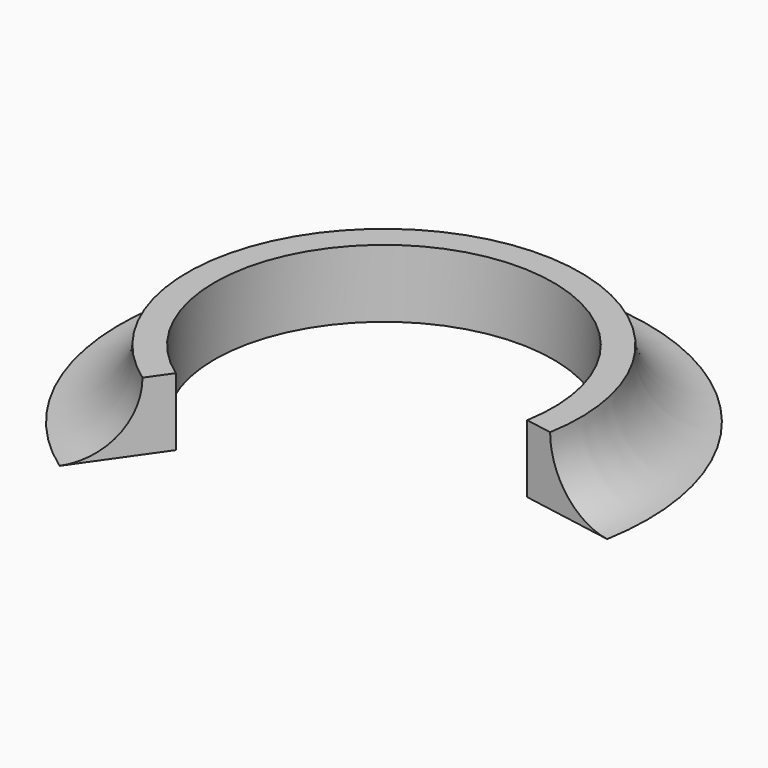
from build123d import *

# Parameters (mm, degrees)
REVOLUTION001_ANGLE = 55
REVOLUTION_ANGLE    = -190


with BuildPart() as right_pillar_round_down:
    # Sketch093 → Revolution001 (revolve)
    with BuildSketch(Plane(origin=(17.15, 72.5, 3), x_dir=(1, 0, 0), z_dir=(0, -1, 0))):
        with BuildLine():
            ThreePointArc((-3.895747, 0), (-3.191385, 0.294392), (-2.899991, 1))
            Line((-2.899991, 1), (-2.5, 1))
            Line((-2.5, 1), (-2.5, 0))
            Line((-3.895747, 0), (-2.5, 0))
        make_face()
    revolve(axis=Axis((17.15, 72.5, 3), (0, 0, 1)), revolution_arc=REVOLUTION001_ANGLE)


with BuildPart() as pillar_right_custom_round_base:
    # Sketch092 → Revolution (revolve)
    with BuildSketch(Plane(origin=(17.15, 72.5, 3), x_dir=(1, 0, 0), z_dir=(0, -1, 0))):
        with BuildLine():
            ThreePointArc((-3.895747, 0), (-3.191385, 0.294392), (-2.899991, 1))
            Line((-2.899991, 1), (-2.5, 1))
            Line((-2.5, 1), (-2.5, 0))
            Line((-3.895747, 0), (-2.5, 0))
        make_face()
    revolve(axis=Axis((17.15, 72.5, 3), (0, 0, 1)), revolution_arc=REVOLUTION_ANGLE)

    # Fusion007039: union right_pillar_round_down
    add(right_pillar_round_down.part)


solid = pillar_right_custom_round_base.part
